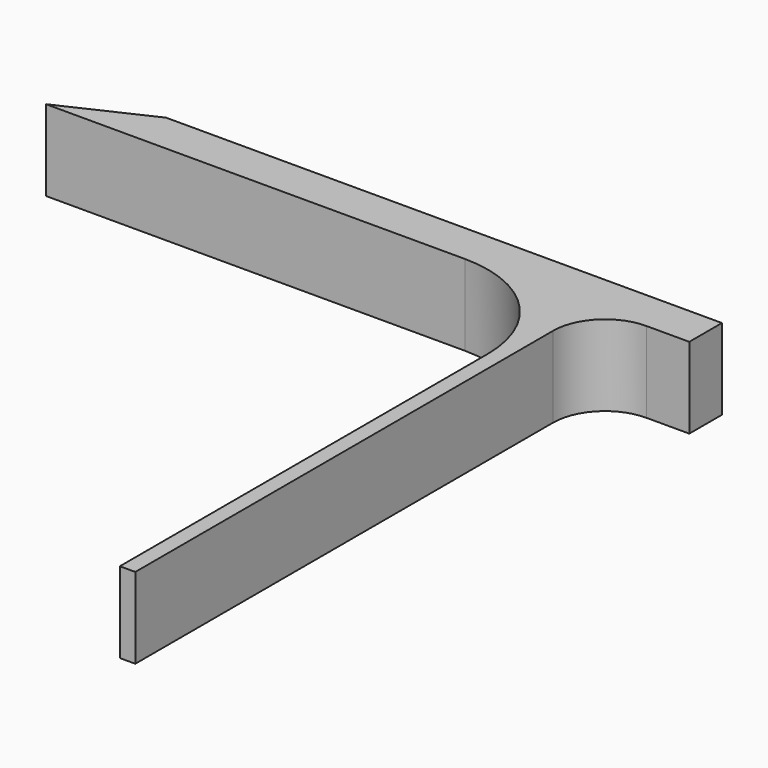
from build123d import *

# Parameters (mm, degrees)
F1_DEPTH = 9.906


with BuildPart() as f1:
    # F0 (on Top) → F1 (new body)
    with BuildSketch(Plane.XY):
        with BuildLine():
            Line((14.161103, -44.194855), (16.054314, -44.194855))
            Line((16.054314, -44.194855), (16.054314, 19.804427))
            ThreePointArc((16.054314, 19.804427), (17.914186, 24.294555), (22.404314, 26.154427))
            Line((22.404314, 26.154427), (27.656913, 26.154427))
            Line((27.656913, 26.154427), (27.656913, 31.152874))
            Line((27.656913, 31.152874), (16.054314, 31.152874))
            Line((16.054314, 31.152874), (14.161103, 31.152874))
            Line((14.161103, 31.152874), (-40.446922, 31.152874))
            Line((-40.446922, 31.152874), (-51.157225, 26.154427))
            Line((-51.157225, 26.154427), (-47.069866, 26.154427))
            Line((-47.069866, 26.154427), (-45.070488, 26.154427))
            Line((-45.070488, 26.154427), (0.191103, 26.154427))
            ThreePointArc((0.191103, 26.154427), (10.069385, 22.062709), (14.161103, 12.184427))
            Line((14.161103, 12.184427), (14.161103, -44.194855))
        make_face()
    extrude(amount=F1_DEPTH)


solid = f1.part
